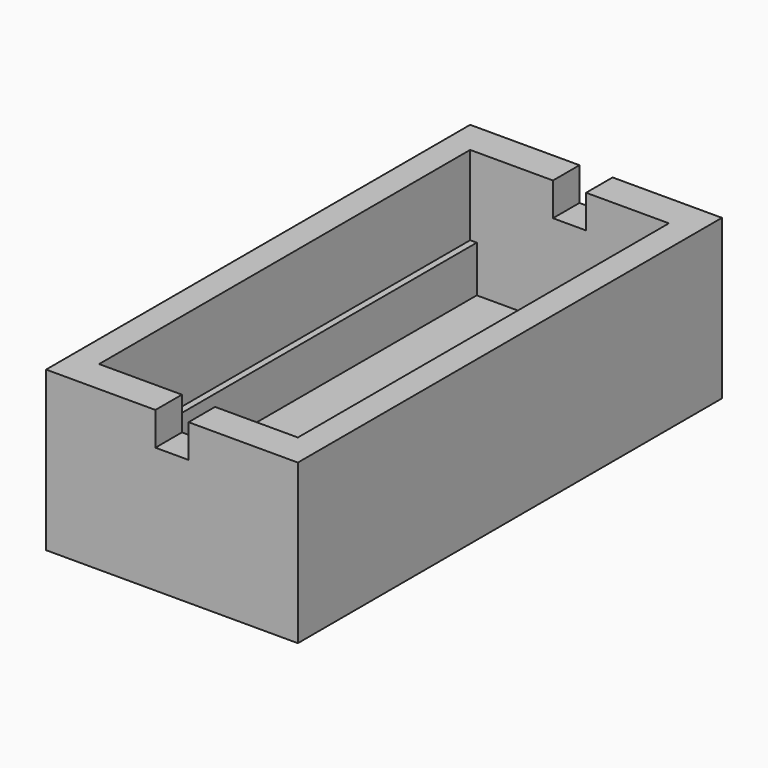
from build123d import *

# Parameters (mm, degrees)
F1_DEPTH = 50.8
F2_DEPTH = 50.8
F5_T     = -6.35
F4_W     = 38.1
F4_H     = 88.9
F6_DEPTH = 31.75


with BuildPart() as f1:
    # F0 (on Front) → F1 (new body)
    with BuildSketch(Plane.XZ):
        Polygon((24.13, -15.24), (24.13, 15.24), (19.05, 15.24), (19.05, -10.16), (-19.05, -10.16), (-19.05, 15.24), (-24.13, 15.24), (-24.13, -15.24), align=None)
    extrude(amount=F1_DEPTH)

    # F0 (on Front) → F2 (join)
    with BuildSketch(Plane.XZ):
        Polygon((19.05, -10.16), (19.05, 15.24), (3.175, 15.24), (3.175, 8.8727482983), (-3.175, 8.8727482983), (-3.175, 15.24), (-19.05, 15.24), (-19.05, -10.16), align=None)
    extrude(amount=F2_DEPTH)

    # F3: F1 across plane


with BuildPart() as f1_1:
    add(f1.part)
    add(f1.part.mirror(Plane.XZ))

    # F5
    f5_openings = [f1_1.faces().sort_by_distance(p)[0] for p in [
        (13.6525, 0, 15.24),
        (-13.6525, 0, 15.24),
    ]]
    offset(amount=F5_T, openings=f5_openings, kind=Kind.INTERSECTION)

    # F4 (on Top) → F6 (cut)
    with BuildSketch(Plane.XY):
        Rectangle(F4_W, F4_H)
    extrude(amount=F6_DEPTH, mode=Mode.SUBTRACT)


solid = f1_1.part
